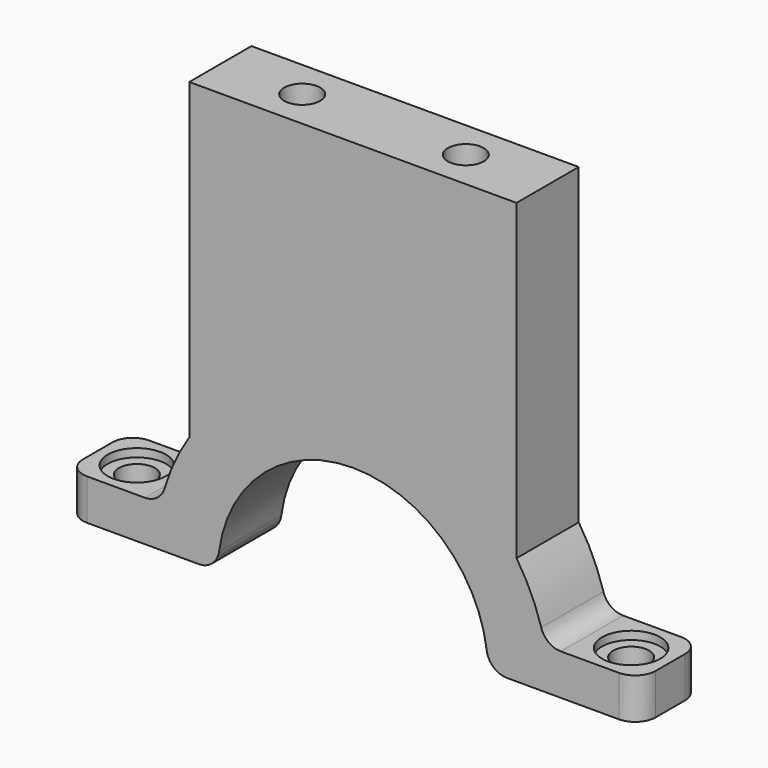
from build123d import *

# Parameters (mm, degrees)
F1_DEPTH       = 19
F3_D           = 8.8
F3_CBORE_D     = 14.25
F3_CBORE_DEPTH = 2
F4_R           = 5
F6_D           = 8.8
F6_CBORE_D     = 14.25
F6_CBORE_DEPTH = 2
F7_R           = 5
F9_D           = 8.8


with BuildPart() as f1:
    # F0 (on Front) → F1 (new body)
    with BuildSketch(Plane.XZ):
        with BuildLine():
            ThreePointArc((-32.7130879295, 4.3421052632), (0, 33), (32.7130879295, 4.3421052632))
            ThreePointArc((32.7130879295, 4.3421052632), (34.3748837654, 1.2390510716), (37.6696164037, 0))
            Line((37.6696164037, 0), (70, 0))
            Line((70, 0), (70, 10))
            Line((70, 10), (50.8330601086, 10))
            ThreePointArc((50.8330601086, 10), (47.8393560232, 10.9952857968), (46.0374884002, 13.5849056604))
            ThreePointArc((46.0374884002, 13.5849056604), (43.5031680278, 20.2848310702), (40, 26.5329983228))
            Line((40, 26.5329983228), (40, 103))
            Line((40, 103), (0, 103))
            Line((0, 103), (-40, 103))
            Line((-40, 103), (-40, 26.5329983228))
            ThreePointArc((-40, 26.5329983228), (-43.5031680278, 20.2848310702), (-46.0374884002, 13.5849056604))
            ThreePointArc((-46.0374884002, 13.5849056604), (-47.8393560232, 10.9952857968), (-50.8330601086, 10))
            Line((-50.8330601086, 10), (-70, 10))
            Line((-70, 10), (-70, 0))
            Line((-70, 0), (-37.6696164037, 0))
            ThreePointArc((-37.6696164037, 0), (-34.3748837654, 1.2390510716), (-32.7130879295, 4.3421052632))
        make_face()
    extrude(amount=F1_DEPTH)

    # F3 (through all)
    with Locations(Plane.XY.offset(10)):
        with Locations((60.4165300543, -9.5)):
            CounterBoreHole(F3_D / 2, F3_CBORE_D / 2, F3_CBORE_DEPTH)

    # F4
    f4_edges = [f1.edges().sort_by_distance(p)[0] for p in [
        (70, -19, 5),
        (70, 0, 5),
    ]]
    fillet(f4_edges, radius=F4_R)

    # F6 (through all)
    with Locations(Plane.XY.offset(10)):
        with Locations((-60.4165300543, -9.5)):
            CounterBoreHole(F6_D / 2, F6_CBORE_D / 2, F6_CBORE_DEPTH)

    # F7
    f7_edges = [f1.edges().sort_by_distance(p)[0] for p in [
        (-70, -19, 5),
        (-70, 0, 5),
    ]]
    fillet(f7_edges, radius=F7_R)

    # F9 (through all)
    with Locations(Plane.XY.offset(103)):
        with Locations((20, -9.5), (-20, -9.5)):
            Hole(F9_D / 2)


solid = f1.part
